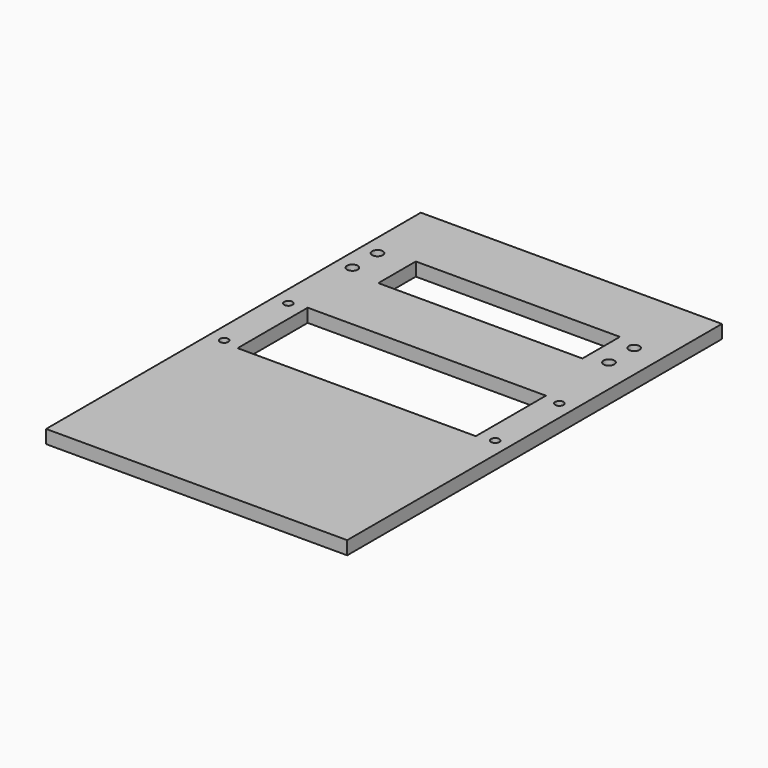
from build123d import *

# Parameters (mm, degrees)
SKETCH_W   = 90
SKETCH_H   = 140
SKETCH_R   = 1.25
SKETCH_R_2 = 1.6
SKETCH_W_2 = 71.2
SKETCH_H_2 = 26.2
SKETCH_W_3 = 61
SKETCH_H_3 = 14
PAD_DEPTH  = 4


with BuildPart() as part:
    # Sketch → Pad (new body)
    with BuildSketch(Plane.XY):
        Rectangle(SKETCH_W, SKETCH_H)
        with Locations((-40.5, 14.9)):
            Circle(SKETCH_R, mode=Mode.SUBTRACT)
        with Locations((-40.5, -9.1)):
            Circle(SKETCH_R, mode=Mode.SUBTRACT)
        with Locations((40.5, 14.9)):
            Circle(SKETCH_R, mode=Mode.SUBTRACT)
        with Locations((40.5, -9.1)):
            Circle(SKETCH_R, mode=Mode.SUBTRACT)
        with Locations((-40.1, 47.7)):
            Circle(SKETCH_R_2, mode=Mode.SUBTRACT)
        with Locations((-40.1, 38.3)):
            Circle(SKETCH_R_2, mode=Mode.SUBTRACT)
        with Locations((36.6, 47.7)):
            Circle(SKETCH_R_2, mode=Mode.SUBTRACT)
        with Locations((36.6, 38.3)):
            Circle(SKETCH_R_2, mode=Mode.SUBTRACT)
        with Locations((0, 2.9)):
            Rectangle(SKETCH_W_2, SKETCH_H_2, mode=Mode.SUBTRACT)
        with Locations((0, 43)):
            Rectangle(SKETCH_W_3, SKETCH_H_3, mode=Mode.SUBTRACT)
    extrude(amount=PAD_DEPTH)


solid = part.part
